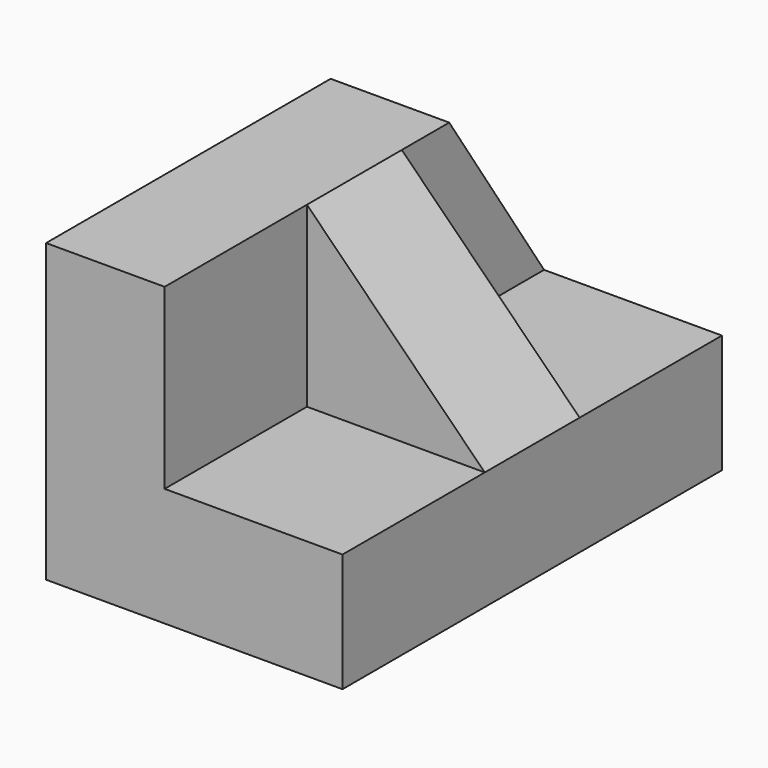
from build123d import *

# Parameters (mm, degrees)
F0_W     = 50.8
F0_H     = 31.75
F1_DEPTH = 31.75
F2_W     = 19.05
F2_H     = 19.05
F3_DEPTH = 50.801
F5_DEPTH = 12.701
F6_W     = 12.7
F6_H     = 19.05
F7_DEPTH = 25.4
F9_DEPTH = 31.751


with BuildPart() as f1:
    # F0 (on Right) → F1 (new body)
    with BuildSketch(Plane.YZ):
        with Locations((-25.4, 15.875)):
            Rectangle(F0_W, F0_H)
    extrude(amount=F1_DEPTH)

    # F2 (on face) → F3 (cut, through all)
    with BuildSketch(Plane(origin=(0, 0, 0), x_dir=(-1, 0, 0), z_dir=(0, 1, 0))):
        with Locations((-22.225, 22.225)):
            Rectangle(F2_W, F2_H)
    extrude(amount=-F3_DEPTH, mode=Mode.SUBTRACT)

    # F4 (on face) → F5 (cut, through all)
    with BuildSketch(Plane.YZ.offset(12.7)):
        Polygon((0, 31.75), (-12.7, 31.75), (0, 12.7), align=None)
    extrude(amount=-F5_DEPTH, mode=Mode.SUBTRACT)

    # F6 (on face) → F7 (join)
    with BuildSketch(Plane.YZ.offset(12.7)):
        with Locations((-25.4, 22.225)):
            Rectangle(F6_W, F6_H)
    extrude(amount=F7_DEPTH)

    # F8 (on face) → F9 (cut, through all)
    with BuildSketch(Plane(origin=(0, -19.05, 0), x_dir=(-1, 0, 0), z_dir=(0, 1, 0))):
        Polygon((-38.1, 12.7), (-31.75, 12.7), (-12.7, 31.75), (-38.1, 31.75), align=None)
    extrude(amount=-F9_DEPTH, mode=Mode.SUBTRACT)


solid = f1.part
